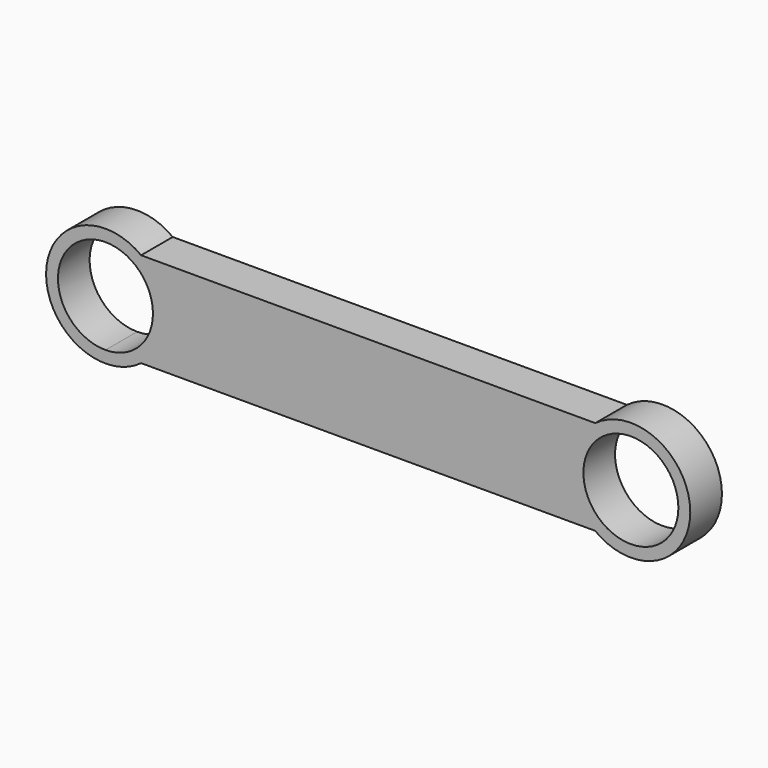
from build123d import *

# Parameters (mm, degrees)
F0_R     = 30.48
F1_DEPTH = 25.4
F2_DEPTH = 25.4


with BuildPart() as f1:
    # F0 (on Front) → F1 (new body)
    with BuildSketch(Plane.XZ):
        with BuildLine():
            Line((83.8241713864, 30.4362256431), (-207.6408286629, 30.4768158622))
            ThreePointArc((-207.6408286629, 30.4768158622), (-268.605073564, -1.90103e-05), (-207.6407982496, -30.4767930456))
            Line((-207.6407982496, -30.4767930456), (83.6990565063, -30.435929576))
            ThreePointArc((83.6990565063, -30.435929576), (144.7798459585, -0.1252670886), (83.8241713864, 30.4362256431))
        make_face()
        with Locations((106.6799264359, -0.0469576079)):
            Circle(F0_R, mode=Mode.SUBTRACT)
        with BuildLine():
            ThreePointArc((-230.5050735641, -30.48), (-252.0576882546, 21.5526146906), (-200.0250735641, 0))
            ThreePointArc((-200.0250735641, 0), (-208.9494361053, -21.5495914984), (-230.496523285, -30.4799988007))
            Line((-230.496523285, -30.4799988007), (-230.5050735641, -30.48))
        make_face(mode=Mode.SUBTRACT)
    extrude(amount=F1_DEPTH)

    # F0 (on Front) → F2 (join)
    with BuildSketch(Plane.XZ):
        with BuildLine():
            Line((83.8241713864, 30.4362256431), (-207.6408286629, 30.4768158622))
            ThreePointArc((-207.6408286629, 30.4768158622), (-268.605073564, -1.90103e-05), (-207.6407982496, -30.4767930456))
            Line((-207.6407982496, -30.4767930456), (83.6990565063, -30.435929576))
            ThreePointArc((83.6990565063, -30.435929576), (144.7798459585, -0.1252670886), (83.8241713864, 30.4362256431))
        make_face()
        with Locations((106.6799264359, -0.0469576079)):
            Circle(F0_R, mode=Mode.SUBTRACT)
        with BuildLine():
            ThreePointArc((-230.5050735641, -30.48), (-252.0576882546, 21.5526146906), (-200.0250735641, 0))
            ThreePointArc((-200.0250735641, 0), (-208.9494361053, -21.5495914984), (-230.496523285, -30.4799988007))
            Line((-230.496523285, -30.4799988007), (-230.5050735641, -30.48))
        make_face(mode=Mode.SUBTRACT)
    extrude(amount=F2_DEPTH)


solid = f1.part
